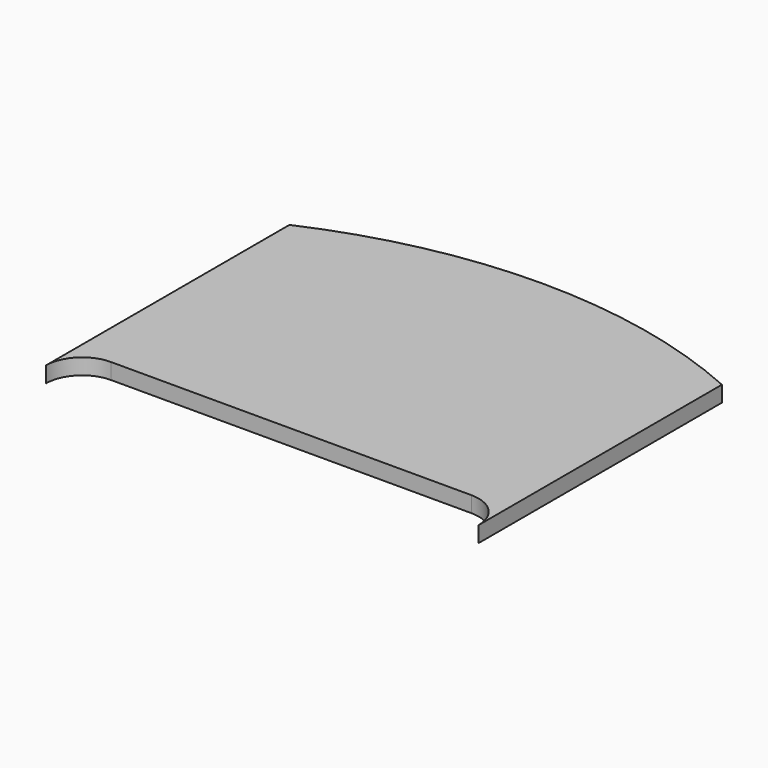
from build123d import *

# Parameters (mm, degrees)
F1_DEPTH = 22


with BuildPart() as f1:
    # F0 (on Top) → F1 (new body)
    with BuildSketch(Plane.XY):
        with BuildLine():
            ThreePointArc((-300, 250), (-285.355339, 285.355339), (-250, 300))
            Line((-250, 300), (250, 300))
            ThreePointArc((250, 300), (285.355339, 285.355339), (300, 250))
            Line((300, 250), (300, 671.907732))
            ThreePointArc((300, 671.907732), (0, 735.839656), (-300, 671.907732))
            Line((-300, 671.907732), (-300, 250))
        make_face()
    extrude(amount=F1_DEPTH)


solid = f1.part
